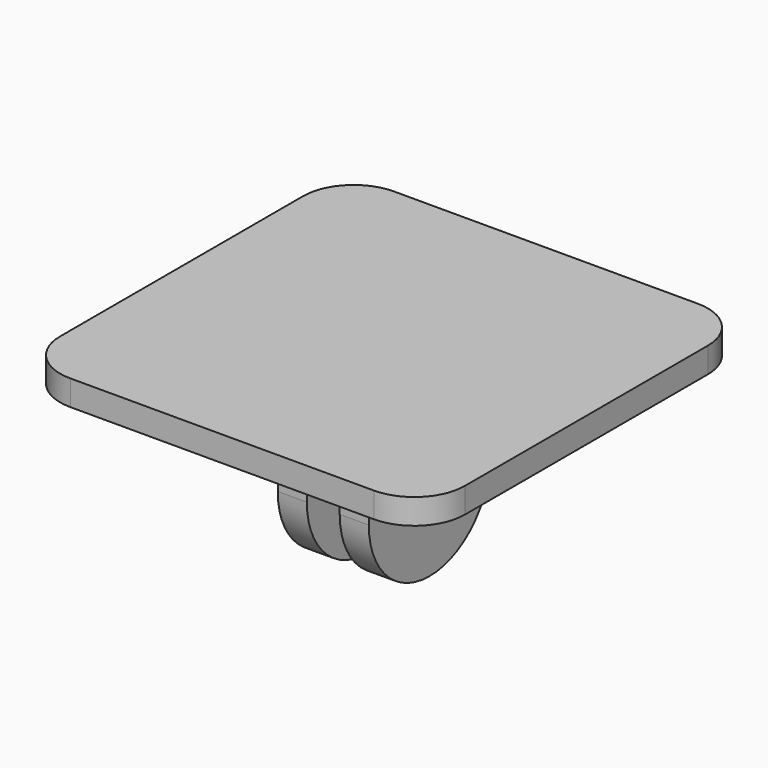
from build123d import *

# Parameters (mm, degrees)
F0_R     = 2.5
F1_DEPTH = 4.5
F2_DEPTH = 20
F3_W     = 3.25
F3_H     = 20
F4_DEPTH = 25
F5_R     = 1.5
F6_R     = 5


with BuildPart() as f1:
    # F0 (on Right) → F1 (new body, symmetric)
    with BuildSketch(Plane.YZ):
        with BuildLine():
            Line((-7.5, 9), (-7.5, 0))
            ThreePointArc((-7.5, 0), (0, -7.5), (7.5, 0))
            Line((7.5, 0), (7.5, 9))
            Line((7.5, 9), (-7.5, 9))
        make_face()
        Circle(F0_R, mode=Mode.SUBTRACT)
        Polygon((-20, 9), (-7.5, 9), (7.5, 9), (20, 9), (20, 11.5), (-20, 11.5), align=None)
    extrude(amount=F1_DEPTH, both=True)

    # F0 (on Right) → F2 (join, symmetric)
    with BuildSketch(Plane.YZ):
        Polygon((-20, 9), (-7.5, 9), (7.5, 9), (20, 9), (20, 11.5), (-20, 11.5), align=None)
    extrude(amount=F2_DEPTH, both=True)

    # F3 (on face) → F4 (cut)
    with BuildSketch(Plane(origin=(0, 0, 9), x_dir=(1, 0, 0), z_dir=(0, 0, -1))):
        Rectangle(F3_W, F3_H)
    extrude(amount=F4_DEPTH, mode=Mode.SUBTRACT)

    # F5
    f5_edges = [f1.edges().sort_by_distance(p)[0] for p in [
        (-4.5, 0, 9),
        (4.5, 0, 9),
        (-3.0625, 7.5, 9),
        (3.0625, 7.5, 9),
        (3.0625, -7.5, 9),
        (-3.0625, -7.5, 9),
    ]]
    fillet(f5_edges, radius=F5_R)

    # F6
    f6_edges = [f1.edges().sort_by_distance(p)[0] for p in [
        (20, -20, 10.25),
        (-20, -20, 10.25),
        (20, 20, 10.25),
        (-20, 20, 10.25),
    ]]
    fillet(f6_edges, radius=F6_R)


solid = f1.part
